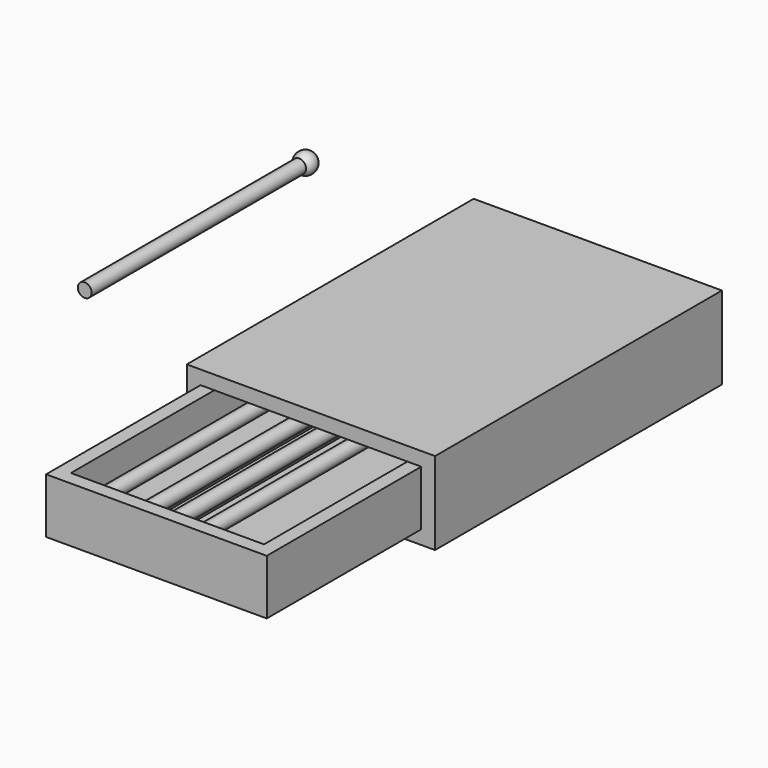
from build123d import *

# Parameters (mm, degrees)
BOX001_W          = 14
BOX001_H          = 22
BOX001_DEPTH      = 3
BOX_W             = 16
BOX_H             = 24
BOX_DEPTH         = 4
BOX003_W          = 16
BOX003_H          = 25
BOX003_DEPTH      = 4
BOX002_W          = 18
BOX002_H          = 26
BOX002_DEPTH      = 6
CYLINDER_R        = 0.5
CYLINDER_DEPTH    = 20
CYLINDER001_R     = 0.5
CYLINDER001_DEPTH = 20
CYLINDER002_R     = 0.5
CYLINDER002_DEPTH = 20
CYLINDER003_R     = 0.5
CYLINDER003_DEPTH = 20
CYLINDER004_R     = 0.5
CYLINDER004_DEPTH = 20
CYLINDER005_R     = 0.5
CYLINDER005_DEPTH = 20
CYLINDER006_R     = 0.5
CYLINDER006_DEPTH = 20


with BuildPart() as box001:
    # Box001 → Box001 (new body)
    with BuildSketch(Plane(origin=(1, 1, 1), x_dir=(1, 0, 0), z_dir=(0, 0, 1))):
        with Locations((7, 11)):
            Rectangle(BOX001_W, BOX001_H)
    extrude(amount=BOX001_DEPTH)


with BuildPart() as cut:
    # Box → Box (new body)
    with BuildSketch(Plane.XY):
        with Locations((8, 12)):
            Rectangle(BOX_W, BOX_H)
    extrude(amount=BOX_DEPTH)

    # Cut: cut Box001
    add(box001.part, mode=Mode.SUBTRACT)


with BuildPart() as box003:
    # Box003 → Box003 (new body)
    with BuildSketch(Plane(origin=(-19, 2, 0), x_dir=(1, 0, 0), z_dir=(0, 0, 1))):
        with Locations((8, 12.5)):
            Rectangle(BOX003_W, BOX003_H)
    extrude(amount=BOX003_DEPTH)


with BuildPart() as cut001:
    # Box002 → Box002 (new body)
    with BuildSketch(Plane(origin=(-20, 2, -1), x_dir=(1, 0, 0), z_dir=(0, 0, 1))):
        with Locations((9, 13)):
            Rectangle(BOX002_W, BOX002_H)
    extrude(amount=BOX002_DEPTH)

    # Cut001: cut Box003
    add(box003.part, mode=Mode.SUBTRACT)


with BuildPart() as cut001_1:
    # Cut001 placement: moved
    add(cut001.part.moved(Location((19, 12, 0))))


with BuildPart() as sphere:
    # Sphere → Sphere (revolve)
    with BuildSketch(Plane(origin=(-13, 21, 0), x_dir=(1, 0, 0), z_dir=(0, -1, 0))):
        with BuildLine():
            ThreePointArc((0, -0.75), (0.75, 0), (0, 0.75))
            Line((0, 0.75), (0, -0.75))
        make_face()
    revolve(axis=Axis((-13, 21, 0), (0, 0, 1)))


with BuildPart() as fusion:
    # Cylinder → Cylinder (new body)
    with BuildSketch(Plane(origin=(-13, 1, 0), x_dir=(1, 0, 0), z_dir=(0, 1, 0))):
        Circle(CYLINDER_R)
    extrude(amount=CYLINDER_DEPTH)

    # Fusion: union Sphere
    add(sphere.part)


with BuildPart() as fusion_1:
    # Fusion placement: moved
    add(fusion.part.moved(Location((15, 0, 16))))


with BuildPart() as sphere001:
    # Sphere001 → Sphere001 (revolve)
    with BuildSketch(Plane(origin=(-13, 21, 0), x_dir=(1, 0, 0), z_dir=(0, -1, 0))):
        with BuildLine():
            ThreePointArc((0, -0.75), (0.75, 0), (0, 0.75))
            Line((0, 0.75), (0, -0.75))
        make_face()
    revolve(axis=Axis((-13, 21, 0), (0, 0, 1)))


with BuildPart() as fusion001:
    # Cylinder001 → Cylinder001 (new body)
    with BuildSketch(Plane(origin=(-13, 1, 0), x_dir=(1, 0, 0), z_dir=(0, 1, 0))):
        Circle(CYLINDER001_R)
    extrude(amount=CYLINDER001_DEPTH)

    # Fusion001: union Sphere001
    add(sphere001.part)


with BuildPart() as fusion001_1:
    # Fusion001 placement: moved
    add(fusion001.part.moved(Location((16, 0, 3))))


with BuildPart() as sphere002:
    # Sphere002 → Sphere002 (revolve)
    with BuildSketch(Plane(origin=(-13, 21, 0), x_dir=(1, 0, 0), z_dir=(0, -1, 0))):
        with BuildLine():
            ThreePointArc((0, -0.75), (0.75, 0), (0, 0.75))
            Line((0, 0.75), (0, -0.75))
        make_face()
    revolve(axis=Axis((-13, 21, 0), (0, 0, 1)))


with BuildPart() as fusion002:
    # Cylinder002 → Cylinder002 (new body)
    with BuildSketch(Plane(origin=(-13, 1, 0), x_dir=(1, 0, 0), z_dir=(0, 1, 0))):
        Circle(CYLINDER002_R)
    extrude(amount=CYLINDER002_DEPTH)

    # Fusion002: union Sphere002
    add(sphere002.part)


with BuildPart() as fusion002_1:
    # Fusion002 placement: moved
    add(fusion002.part.moved(Location((18, 0, 2))))


with BuildPart() as sphere003:
    # Sphere003 → Sphere003 (revolve)
    with BuildSketch(Plane(origin=(-13, 21, 0), x_dir=(1, 0, 0), z_dir=(0, -1, 0))):
        with BuildLine():
            ThreePointArc((0, -0.75), (0.75, 0), (0, 0.75))
            Line((0, 0.75), (0, -0.75))
        make_face()
    revolve(axis=Axis((-13, 21, 0), (0, 0, 1)))


with BuildPart() as fusion003:
    # Cylinder003 → Cylinder003 (new body)
    with BuildSketch(Plane(origin=(-13, 1, 0), x_dir=(1, 0, 0), z_dir=(0, 1, 0))):
        Circle(CYLINDER003_R)
    extrude(amount=CYLINDER003_DEPTH)

    # Fusion003: union Sphere003
    add(sphere003.part)


with BuildPart() as fusion003_1:
    # Fusion003 placement: moved
    add(fusion003.part.moved(Location((19, 0, 3))))


with BuildPart() as sphere004:
    # Sphere004 → Sphere004 (revolve)
    with BuildSketch(Plane(origin=(-13, 21, 0), x_dir=(1, 0, 0), z_dir=(0, -1, 0))):
        with BuildLine():
            ThreePointArc((0, -0.75), (0.75, 0), (0, 0.75))
            Line((0, 0.75), (0, -0.75))
        make_face()
    revolve(axis=Axis((-13, 21, 0), (0, 0, 1)))


with BuildPart() as fusion004:
    # Cylinder004 → Cylinder004 (new body)
    with BuildSketch(Plane(origin=(-13, 1, 0), x_dir=(1, 0, 0), z_dir=(0, 1, 0))):
        Circle(CYLINDER004_R)
    extrude(amount=CYLINDER004_DEPTH)

    # Fusion004: union Sphere004
    add(sphere004.part)


with BuildPart() as fusion004_1:
    # Fusion004 placement: moved
    add(fusion004.part.moved(Location((20, 0, 2))))


with BuildPart() as sphere005:
    # Sphere005 → Sphere005 (revolve)
    with BuildSketch(Plane(origin=(-13, 21, 0), x_dir=(1, 0, 0), z_dir=(0, -1, 0))):
        with BuildLine():
            ThreePointArc((0, -0.75), (0.75, 0), (0, 0.75))
            Line((0, 0.75), (0, -0.75))
        make_face()
    revolve(axis=Axis((-13, 21, 0), (0, 0, 1)))


with BuildPart() as fusion005:
    # Cylinder005 → Cylinder005 (new body)
    with BuildSketch(Plane(origin=(-13, 1, 0), x_dir=(1, 0, 0), z_dir=(0, 1, 0))):
        Circle(CYLINDER005_R)
    extrude(amount=CYLINDER005_DEPTH)

    # Fusion005: union Sphere005
    add(sphere005.part)


with BuildPart() as fusion005_1:
    # Fusion005 placement: moved
    add(fusion005.part.moved(Location((21, 0, 3))))


with BuildPart() as sphere006:
    # Sphere006 → Sphere006 (revolve)
    with BuildSketch(Plane(origin=(-13, 21, 0), x_dir=(1, 0, 0), z_dir=(0, -1, 0))):
        with BuildLine():
            ThreePointArc((0, -0.75), (0.75, 0), (0, 0.75))
            Line((0, 0.75), (0, -0.75))
        make_face()
    revolve(axis=Axis((-13, 21, 0), (0, 0, 1)))


with BuildPart() as fusion006:
    # Cylinder006 → Cylinder006 (new body)
    with BuildSketch(Plane(origin=(-13, 1, 0), x_dir=(1, 0, 0), z_dir=(0, 1, 0))):
        Circle(CYLINDER006_R)
    extrude(amount=CYLINDER006_DEPTH)

    # Fusion006: union Sphere006
    add(sphere006.part)


with BuildPart() as fusion006_1:
    # Fusion006 placement: moved
    add(fusion006.part.moved(Location((22, 0, 2))))


solid = Compound([cut.part, cut001_1.part, fusion_1.part, fusion001_1.part, fusion002_1.part, fusion003_1.part, fusion004_1.part, fusion005_1.part, fusion006_1.part])
